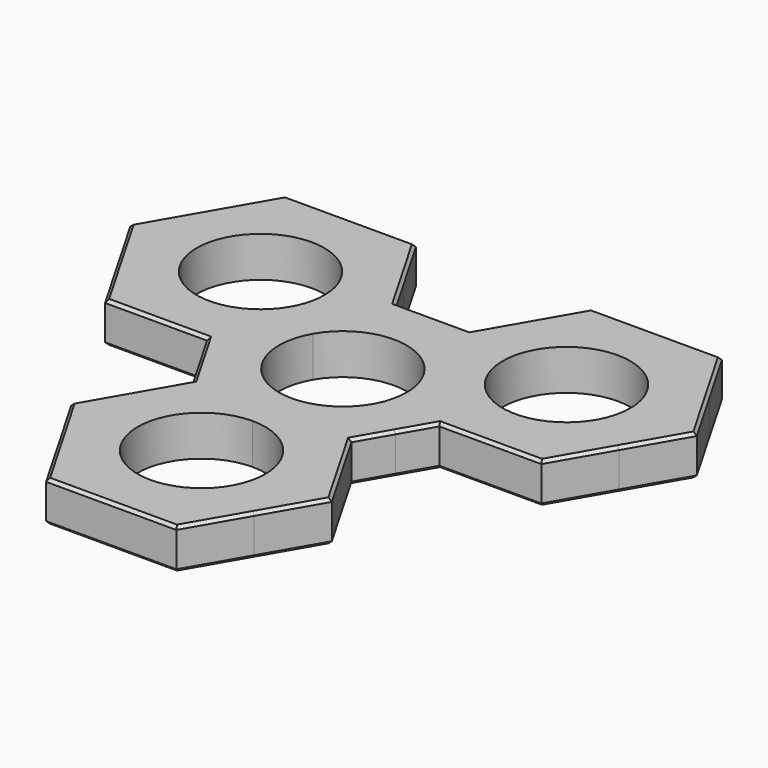
from build123d import *

# Parameters (mm, degrees)
F1_DEPTH = 6.985
F2_SIZE  = 0.508


with BuildPart() as f1:
    # F0 (on Top) → F1 (new body)
    with BuildSketch(Plane.XY):
        with BuildLine():
            ThreePointArc((9.5357190946, 5.5054500415), (10.6357126745, 2.8498306468), (11.0109, 0))
            ThreePointArc((11.0109, 0), (7.7858820574, -7.7858820566), (1.1e-09, -11.0109))
            Line((1.1e-09, -11.0109), (11.2404901259, -11.0109))
            Line((11.2404901259, -11.0109), (13.1646205371, -14.3435916326))
            ThreePointArc((13.1646205371, -14.3435916326), (15.1885256674, -12.180087966), (16.8607351436, -9.7345500784))
            ThreePointArc((16.8607351436, -9.7345500784), (18.1425283998, -7.0636051754), (19.0042250039, -4.2291))
            Line((19.0042250039, -4.2291), (15.1559641815, -4.2291))
            Line((15.1559641815, -4.2291), (9.5357190946, 5.5054500415))
        make_face()
        with BuildLine():
            ThreePointArc((-9.5357191578, 5.5054499319), (-6.32e-08, 11.0109), (9.5357190946, 5.5054500415))
            Line((9.5357190946, 5.5054500415), (3.9154740556, 15.24))
            Line((3.9154740556, 15.24), (5.8396044668, 18.5726916326))
            ThreePointArc((5.8396044668, 18.5726916326), (2.9540027205, 19.2436930639), (0, 19.4691))
            ThreePointArc((0, 19.4691), (-2.9540027205, 19.2436930639), (-5.8396044668, 18.5726916326))
            Line((-5.8396044668, 18.5726916326), (-3.9154740556, 15.24))
            Line((-3.9154740556, 15.24), (-9.5357191578, 5.5054499319))
        make_face()
        with BuildLine():
            Line((-11.2404901259, -11.0109), (1.1e-09, -11.0109))
            ThreePointArc((1.1e-09, -11.0109), (-9.5357190986, -5.5054500345), (-9.5357191578, 5.5054499319))
            Line((-9.5357191578, 5.5054499319), (-15.1559641815, -4.2291))
            Line((-15.1559641815, -4.2291), (-19.0042250039, -4.2291))
            ThreePointArc((-19.0042250039, -4.2291), (-18.1425283538, -7.0636052934), (-16.8607350169, -9.7345502977))
            ThreePointArc((-16.8607350169, -9.7345502977), (-15.1885255882, -12.1800880648), (-13.1646205371, -14.3435916326))
            Line((-13.1646205371, -14.3435916326), (-11.2404901259, -11.0109))
        make_face()
        with BuildLine():
            Line((11.2404901259, 19.4691), (16.8607351393, 9.7345500857))
            Line((16.8607351393, 9.7345500857), (22.4809802518, 0))
            Line((22.4809802518, 0), (20.5568498405, -3.3326916326))
            ThreePointArc((20.5568498405, -3.3326916326), (23.4424515869, -4.0036930639), (26.3964543074, -4.2291))
            ThreePointArc((26.3964543074, -4.2291), (36.1310042357, -1.6207352302), (43.2571894135, 5.5054498567))
            ThreePointArc((43.2571894135, 5.5054498567), (45.2021607905, 10.2010260491), (45.8655543073, 15.24))
            ThreePointArc((45.8655543073, 15.24), (45.2021608159, 20.2789738562), (43.2571895115, 24.9745499735))
            ThreePointArc((43.2571895115, 24.9745499735), (36.1310043206, 32.1007351812), (26.3964543074, 34.7091))
            ThreePointArc((26.3964543074, 34.7091), (16.6619043065, 32.1007351883), (9.5357191175, 24.9745499982))
            ThreePointArc((9.5357191175, 24.9745499982), (8.2539258908, 22.3036051322), (7.3922293034, 19.4691))
            Line((7.3922293034, 19.4691), (11.2404901259, 19.4691))
        make_face()
        with BuildLine():
            ThreePointArc((37.4073543073, 15.24), (29.2462848833, 4.6042873065), (16.8607351393, 9.7345500857))
            ThreePointArc((16.8607351393, 9.7345500857), (23.5466237314, 25.8757126935), (37.4073543073, 15.24))
        make_face(mode=Mode.SUBTRACT)
        with BuildLine():
            ThreePointArc((5.8396044668, 18.5726916326), (6.4940895018, 18.3540909977), (7.1404170128, 18.1124349465))
            ThreePointArc((7.1404170128, 18.1124349465), (7.2543004891, 18.7929990159), (7.3922293034, 19.4691))
            Line((7.3922293034, 19.4691), (6.357146079, 19.4691))
            Line((6.357146079, 19.4691), (5.8396044668, 18.5726916326))
        make_face()
        with BuildLine():
            ThreePointArc((20.5568498405, -3.3326916326), (19.9023648056, -3.1140909977), (19.2560372945, -2.8724349465))
            ThreePointArc((19.2560372945, -2.8724349465), (19.1421538183, -3.5529990159), (19.0042250039, -4.2291))
            Line((19.0042250039, -4.2291), (20.0393082283, -4.2291))
            Line((20.0393082283, -4.2291), (20.5568498405, -3.3326916326))
        make_face()
        with BuildLine():
            Line((11.2404901259, -19.4691), (8.1e-09, -19.4691))
            Line((8.1e-09, -19.4691), (-11.2404901259, -19.4691))
            Line((-11.2404901259, -19.4691), (-13.1646205371, -16.1364083674))
            ThreePointArc((-13.1646205371, -16.1364083674), (-15.1885255682, -18.2999119102), (-16.8607349849, -20.7454496469))
            ThreePointArc((-16.8607349849, -20.7454496469), (-19.4691, -30.4800000374), (-16.8607349475, -40.214550418))
            ThreePointArc((-16.8607349475, -40.214550418), (-9.734549801, -47.3407353037), (-2.3e-08, -49.9491))
            ThreePointArc((-2.3e-08, -49.9491), (9.7345501407, -47.3407351076), (16.8607353627, -40.2145496988))
            ThreePointArc((16.8607353627, -40.2145496988), (18.8057065496, -35.518973703), (19.4691, -30.48))
            ThreePointArc((19.4691, -30.48), (18.8057064421, -25.4410258959), (16.8607349475, -20.745449582))
            ThreePointArc((16.8607349475, -20.745449582), (15.1885255448, -18.299911881), (13.1646205371, -16.1364083674))
            Line((13.1646205371, -16.1364083674), (11.2404901259, -19.4691))
        make_face()
        with BuildLine():
            ThreePointArc((11.0109, -30.48), (-7.7858820598, -38.2658820541), (8.1e-09, -19.4691))
            ThreePointArc((8.1e-09, -19.4691), (7.7858820598, -22.6941179459), (11.0109, -30.48))
        make_face(mode=Mode.SUBTRACT)
        with BuildLine():
            ThreePointArc((13.1646205371, -14.3435916326), (12.6480643165, -14.8010919819), (12.1156202817, -15.24))
            ThreePointArc((12.1156202817, -15.24), (12.6480643165, -15.6789080181), (13.1646205371, -16.1364083674))
            Line((13.1646205371, -16.1364083674), (13.6821621493, -15.24))
            Line((13.6821621493, -15.24), (13.1646205371, -14.3435916326))
        make_face()
        with BuildLine():
            ThreePointArc((-13.1646205371, -16.1364083674), (-12.6480643165, -15.6789080181), (-12.1156202817, -15.24))
            ThreePointArc((-12.1156202817, -15.24), (-12.6480643165, -14.8010919819), (-13.1646205371, -14.3435916326))
            Line((-13.1646205371, -14.3435916326), (-13.6821621493, -15.24))
            Line((-13.6821621493, -15.24), (-13.1646205371, -16.1364083674))
        make_face()
        with BuildLine():
            Line((-22.4809802518, 0), (-16.8607351415, 9.7345500819))
            Line((-16.8607351415, 9.7345500819), (-11.2404901259, 19.4691))
            Line((-11.2404901259, 19.4691), (-7.3922293034, 19.4691))
            ThreePointArc((-7.3922293034, 19.4691), (-8.2539258856, 22.3036051189), (-9.5357191032, 24.9745499735))
            ThreePointArc((-9.5357191032, 24.9745499735), (-16.6619042941, 32.1007351812), (-26.3964543073, 34.7091))
            ThreePointArc((-26.3964543073, 34.7091), (-36.1310043206, 32.1007351812), (-43.2571895115, 24.9745499735))
            ThreePointArc((-43.2571895115, 24.9745499735), (-45.8655543073, 15.2399997434), (-43.2571892549, 5.505449582))
            ThreePointArc((-43.2571892549, 5.505449582), (-36.1310040984, -1.6207353095), (-26.3964543073, -4.2291))
            ThreePointArc((-26.3964543073, -4.2291), (-23.4424515869, -4.0036930639), (-20.5568498405, -3.3326916326))
            Line((-20.5568498405, -3.3326916326), (-22.4809802518, 0))
        make_face()
        with BuildLine():
            ThreePointArc((-15.3855543073, 15.24), (-15.7607416144, 12.390169422), (-16.8607351415, 9.7345500819))
            ThreePointArc((-16.8607351415, 9.7345500819), (-37.0321670003, 18.089830578), (-15.3855543073, 15.24))
        make_face(mode=Mode.SUBTRACT)
        with BuildLine():
            ThreePointArc((-19.0042250039, -4.2291), (-19.1421538183, -3.5529990159), (-19.2560372945, -2.8724349465))
            ThreePointArc((-19.2560372945, -2.8724349465), (-19.9023648056, -3.1140909977), (-20.5568498405, -3.3326916326))
            Line((-20.5568498405, -3.3326916326), (-20.0393082283, -4.2291))
            Line((-20.0393082283, -4.2291), (-19.0042250039, -4.2291))
        make_face()
        with BuildLine():
            ThreePointArc((0, 19.4691), (2.9540027205, 19.2436930639), (5.8396044668, 18.5726916326))
            Line((5.8396044668, 18.5726916326), (6.357146079, 19.4691))
            Line((6.357146079, 19.4691), (0, 19.4691))
        make_face()
        with BuildLine():
            Line((6.357146079, 19.4691), (7.3922293034, 19.4691))
            ThreePointArc((7.3922293034, 19.4691), (8.2539258908, 22.3036051322), (9.5357191175, 24.9745499982))
            Line((9.5357191175, 24.9745499982), (6.357146079, 19.4691))
        make_face()
        with BuildLine():
            Line((20.0393082283, -4.2291), (19.0042250039, -4.2291))
            ThreePointArc((19.0042250039, -4.2291), (18.1425283998, -7.0636051754), (16.8607351436, -9.7345500784))
            Line((16.8607351436, -9.7345500784), (20.0393082283, -4.2291))
        make_face()
        with BuildLine():
            ThreePointArc((26.3964543074, -4.2291), (23.4424515869, -4.0036930639), (20.5568498405, -3.3326916326))
            Line((20.5568498405, -3.3326916326), (20.0393082283, -4.2291))
            Line((20.0393082283, -4.2291), (26.3964543074, -4.2291))
        make_face()
        with BuildLine():
            ThreePointArc((16.8607351436, -9.7345500784), (15.1885256674, -12.180087966), (13.1646205371, -14.3435916326))
            Line((13.1646205371, -14.3435916326), (13.6821621493, -15.24))
            Line((13.6821621493, -15.24), (16.8607351436, -9.7345500784))
        make_face()
        with BuildLine():
            Line((13.6821621493, -15.24), (13.1646205371, -16.1364083674))
            ThreePointArc((13.1646205371, -16.1364083674), (15.1885255448, -18.299911881), (16.8607349475, -20.745449582))
            Line((16.8607349475, -20.745449582), (13.6821621493, -15.24))
        make_face()
        with BuildLine():
            Line((-13.6821621493, -15.24), (-13.1646205371, -14.3435916326))
            ThreePointArc((-13.1646205371, -14.3435916326), (-15.1885255882, -12.1800880648), (-16.8607350169, -9.7345502977))
            Line((-16.8607350169, -9.7345502977), (-13.6821621493, -15.24))
        make_face()
        with BuildLine():
            ThreePointArc((-16.8607349849, -20.7454496469), (-15.1885255682, -18.2999119102), (-13.1646205371, -16.1364083674))
            Line((-13.1646205371, -16.1364083674), (-13.6821621493, -15.24))
            Line((-13.6821621493, -15.24), (-16.8607349849, -20.7454496469))
        make_face()
        with BuildLine():
            ThreePointArc((-7.3922293034, 19.4691), (-7.2543004891, 18.7929990159), (-7.1404170128, 18.1124349465))
            ThreePointArc((-7.1404170128, 18.1124349465), (-6.4940895018, 18.3540909977), (-5.8396044668, 18.5726916326))
            Line((-5.8396044668, 18.5726916326), (-6.357146079, 19.4691))
            Line((-6.357146079, 19.4691), (-7.3922293034, 19.4691))
        make_face()
        with BuildLine():
            Line((-20.0393082283, -4.2291), (-20.5568498405, -3.3326916326))
            ThreePointArc((-20.5568498405, -3.3326916326), (-23.4424515869, -4.0036930639), (-26.3964543073, -4.2291))
            Line((-26.3964543073, -4.2291), (-20.0393082283, -4.2291))
        make_face()
        with BuildLine():
            ThreePointArc((-16.8607350169, -9.7345502977), (-18.1425283538, -7.0636052934), (-19.0042250039, -4.2291))
            Line((-19.0042250039, -4.2291), (-20.0393082283, -4.2291))
            Line((-20.0393082283, -4.2291), (-16.8607350169, -9.7345502977))
        make_face()
        with BuildLine():
            Line((-6.357146079, 19.4691), (-5.8396044668, 18.5726916326))
            ThreePointArc((-5.8396044668, 18.5726916326), (-2.9540027205, 19.2436930639), (0, 19.4691))
            Line((0, 19.4691), (-6.357146079, 19.4691))
        make_face()
        with BuildLine():
            Line((15.1559641815, 34.7091), (9.5357191175, 24.9745499982))
            ThreePointArc((9.5357191175, 24.9745499982), (16.6619043065, 32.1007351883), (26.3964543074, 34.7091))
            Line((26.3964543074, 34.7091), (15.1559641815, 34.7091))
        make_face()
        with BuildLine():
            ThreePointArc((43.2571894135, 5.5054498567), (36.1310042357, -1.6207352302), (26.3964543074, -4.2291))
            Line((26.3964543074, -4.2291), (37.6369444332, -4.2291))
            Line((37.6369444332, -4.2291), (43.2571894135, 5.5054498567))
        make_face()
        with BuildLine():
            Line((22.4809802518, -30.48), (16.8607349475, -20.745449582))
            ThreePointArc((16.8607349475, -20.745449582), (18.8057064421, -25.4410258959), (19.4691, -30.48))
            ThreePointArc((19.4691, -30.48), (18.8057065496, -35.518973703), (16.8607353627, -40.2145496988))
            Line((16.8607353627, -40.2145496988), (22.4809802518, -30.48))
        make_face()
        with BuildLine():
            ThreePointArc((-16.8607349475, -40.214550418), (-19.4691, -30.4800000374), (-16.8607349849, -20.7454496469))
            Line((-16.8607349849, -20.7454496469), (-22.4809802518, -30.48))
            Line((-22.4809802518, -30.48), (-16.8607349475, -40.214550418))
        make_face()
        with BuildLine():
            ThreePointArc((-9.5357191032, 24.9745499735), (-8.2539258856, 22.3036051189), (-7.3922293034, 19.4691))
            Line((-7.3922293034, 19.4691), (-6.357146079, 19.4691))
            Line((-6.357146079, 19.4691), (-9.5357191032, 24.9745499735))
        make_face()
        with BuildLine():
            Line((-37.6369444332, -4.2291), (-26.3964543073, -4.2291))
            ThreePointArc((-26.3964543073, -4.2291), (-36.1310040984, -1.6207353095), (-43.2571892549, 5.505449582))
            Line((-43.2571892549, 5.505449582), (-37.6369444332, -4.2291))
        make_face()
        with BuildLine():
            Line((37.6369444332, 34.7091), (26.3964543074, 34.7091))
            ThreePointArc((26.3964543074, 34.7091), (36.1310043206, 32.1007351812), (43.2571895115, 24.9745499735))
            Line((43.2571895115, 24.9745499735), (37.6369444332, 34.7091))
        make_face()
        with BuildLine():
            ThreePointArc((45.8655543073, 15.24), (45.2021607905, 10.2010260491), (43.2571894135, 5.5054498567))
            Line((43.2571894135, 5.5054498567), (48.8774345591, 15.24))
            Line((48.8774345591, 15.24), (43.2571895115, 24.9745499735))
            ThreePointArc((43.2571895115, 24.9745499735), (45.2021608159, 20.2789738562), (45.8655543073, 15.24))
        make_face()
        with BuildLine():
            ThreePointArc((-2.3e-08, -49.9491), (-9.734549801, -47.3407353037), (-16.8607349475, -40.214550418))
            Line((-16.8607349475, -40.214550418), (-11.2404901259, -49.9491))
            Line((-11.2404901259, -49.9491), (-2.3e-08, -49.9491))
        make_face()
        with BuildLine():
            ThreePointArc((-26.3964543073, 34.7091), (-16.6619042941, 32.1007351812), (-9.5357191032, 24.9745499735))
            Line((-9.5357191032, 24.9745499735), (-15.1559641815, 34.7091))
            Line((-15.1559641815, 34.7091), (-26.3964543073, 34.7091))
        make_face()
        with BuildLine():
            Line((-48.8774345591, 15.24), (-43.2571892549, 5.505449582))
            ThreePointArc((-43.2571892549, 5.505449582), (-45.8655543073, 15.2399997434), (-43.2571895115, 24.9745499735))
            Line((-43.2571895115, 24.9745499735), (-48.8774345591, 15.24))
        make_face()
        with BuildLine():
            Line((11.2404901259, -49.9491), (16.8607353627, -40.2145496988))
            ThreePointArc((16.8607353627, -40.2145496988), (9.7345501407, -47.3407351076), (-2.3e-08, -49.9491))
            Line((-2.3e-08, -49.9491), (11.2404901259, -49.9491))
        make_face()
        with BuildLine():
            ThreePointArc((-43.2571895115, 24.9745499735), (-36.1310043206, 32.1007351812), (-26.3964543073, 34.7091))
            Line((-26.3964543073, 34.7091), (-37.6369444332, 34.7091))
            Line((-37.6369444332, 34.7091), (-43.2571895115, 24.9745499735))
        make_face()
        with BuildLine():
            ThreePointArc((12.1156202817, -15.24), (6.4162594564, -12.0985563843), (1.1e-09, -11.0109))
            Line((0, -11.0109), (0, -19.4691))
            ThreePointArc((8.1e-09, -19.4691), (6.4162594597, -18.3814436146), (12.1156202817, -15.24))
        make_face()
        with BuildLine():
            Line((11.2404901259, -11.0109), (1.1e-09, -11.0109))
            ThreePointArc((1.1e-09, -11.0109), (6.4162594564, -12.0985563843), (12.1156202817, -15.24))
            ThreePointArc((12.1156202817, -15.24), (12.6480643165, -14.8010919819), (13.1646205371, -14.3435916326))
            Line((13.1646205371, -14.3435916326), (11.2404901259, -11.0109))
        make_face()
        with BuildLine():
            ThreePointArc((12.1156202817, -15.24), (6.4162594597, -18.3814436146), (8.1e-09, -19.4691))
            Line((8.1e-09, -19.4691), (11.2404901259, -19.4691))
            Line((11.2404901259, -19.4691), (13.1646205371, -16.1364083674))
            ThreePointArc((13.1646205371, -16.1364083674), (12.6480643165, -15.6789080181), (12.1156202817, -15.24))
        make_face()
        with BuildLine():
            Line((0, -19.4691), (0, -11.0109))
            ThreePointArc((1.1e-09, -11.0109), (-6.4162594553, -12.0985563839), (-12.1156202817, -15.24))
            ThreePointArc((-12.1156202817, -15.24), (-6.416259452, -18.3814436173), (8.1e-09, -19.4691))
        make_face()
        with BuildLine():
            Line((-11.2404901259, -19.4691), (8.1e-09, -19.4691))
            ThreePointArc((8.1e-09, -19.4691), (-6.416259452, -18.3814436173), (-12.1156202817, -15.24))
            ThreePointArc((-12.1156202817, -15.24), (-12.6480643165, -15.6789080181), (-13.1646205371, -16.1364083674))
            Line((-13.1646205371, -16.1364083674), (-11.2404901259, -19.4691))
        make_face()
        with BuildLine():
            ThreePointArc((-12.1156202817, -15.24), (-6.4162594553, -12.0985563839), (1.1e-09, -11.0109))
            Line((1.1e-09, -11.0109), (-11.2404901259, -11.0109))
            Line((-11.2404901259, -11.0109), (-13.1646205371, -14.3435916326))
            ThreePointArc((-13.1646205371, -14.3435916326), (-12.6480643165, -14.8010919819), (-12.1156202817, -15.24))
        make_face()
        with BuildLine():
            Line((16.8607351888, 9.73455), (9.5357191185, 5.50545))
            ThreePointArc((9.5357190946, 5.5054500415), (13.6857868875, 0.4926345216), (19.2560372945, -2.8724349465))
            ThreePointArc((19.2560372945, -2.8724349465), (19.4157612586, -1.4401630323), (19.4691, 0))
            ThreePointArc((19.4691, 0), (18.8057064918, 5.0389739188), (16.8607351393, 9.7345500857))
        make_face()
        with BuildLine():
            ThreePointArc((7.1404170128, 18.1124349465), (7.2695274453, 11.6059219016), (9.5357190946, 5.5054500415))
            Line((9.5357191185, 5.50545), (16.8607351888, 9.73455))
            ThreePointArc((16.8607351393, 9.7345500857), (12.7106673642, 14.7473655263), (7.1404170128, 18.1124349465))
        make_face()
        with BuildLine():
            ThreePointArc((7.1404170128, 18.1124349465), (12.7106673642, 14.7473655263), (16.8607351393, 9.7345500857))
            Line((16.8607351393, 9.7345500857), (11.2404901259, 19.4691))
            Line((11.2404901259, 19.4691), (7.3922293034, 19.4691))
            ThreePointArc((7.3922293034, 19.4691), (7.2543004891, 18.7929990159), (7.1404170128, 18.1124349465))
        make_face()
        with BuildLine():
            Line((-16.8607351888, 9.73455), (-9.5357191185, 5.50545))
            ThreePointArc((-9.5357191578, 5.5054499319), (-7.5907478129, 10.201026091), (-6.9273543073, 15.24))
            ThreePointArc((-6.9273543073, 15.24), (-6.9806930488, 16.6801630323), (-7.1404170128, 18.1124349465))
            ThreePointArc((-7.1404170128, 18.1124349465), (-12.7106673658, 14.7473655249), (-16.8607351415, 9.7345500819))
        make_face()
        with BuildLine():
            Line((-11.2404901259, 19.4691), (-16.8607351415, 9.7345500819))
            ThreePointArc((-16.8607351415, 9.7345500819), (-12.7106673658, 14.7473655249), (-7.1404170128, 18.1124349465))
            ThreePointArc((-7.1404170128, 18.1124349465), (-7.2543004891, 18.7929990159), (-7.3922293034, 19.4691))
            Line((-7.3922293034, 19.4691), (-11.2404901259, 19.4691))
        make_face()
        with BuildLine():
            ThreePointArc((-6.9273543073, 15.24), (-7.5907478129, 10.201026091), (-9.5357191578, 5.5054499319))
            Line((-9.5357191578, 5.5054499319), (-3.9154740556, 15.24))
            Line((-3.9154740556, 15.24), (-5.8396044668, 18.5726916326))
            ThreePointArc((-5.8396044668, 18.5726916326), (-6.4940895018, 18.3540909977), (-7.1404170128, 18.1124349465))
            ThreePointArc((-7.1404170128, 18.1124349465), (-6.9806930488, 16.6801630323), (-6.9273543073, 15.24))
        make_face()
        with BuildLine():
            ThreePointArc((-19.2560372945, -2.8724349465), (-19.1269268487, 3.6340781684), (-16.8607351415, 9.7345500819))
            Line((-16.8607351415, 9.7345500819), (-22.4809802518, 0))
            Line((-22.4809802518, 0), (-20.5568498405, -3.3326916326))
            ThreePointArc((-20.5568498405, -3.3326916326), (-19.9023648056, -3.1140909977), (-19.2560372945, -2.8724349465))
        make_face()
        with BuildLine():
            Line((-15.1559641815, -4.2291), (-9.5357191578, 5.5054499319))
            ThreePointArc((-9.5357191578, 5.5054499319), (-13.6857869354, 0.4926344803), (-19.2560372945, -2.8724349465))
            ThreePointArc((-19.2560372945, -2.8724349465), (-19.1421538183, -3.5529990159), (-19.0042250039, -4.2291))
            Line((-19.0042250039, -4.2291), (-15.1559641815, -4.2291))
        make_face()
        with BuildLine():
            Line((3.9154740556, 15.24), (9.5357190946, 5.5054500415))
            ThreePointArc((9.5357190946, 5.5054500415), (7.2695274453, 11.6059219016), (7.1404170128, 18.1124349465))
            ThreePointArc((7.1404170128, 18.1124349465), (6.4940895018, 18.3540909977), (5.8396044668, 18.5726916326))
            Line((5.8396044668, 18.5726916326), (3.9154740556, 15.24))
        make_face()
        with BuildLine():
            ThreePointArc((-19.2560372945, -2.8724349465), (-13.6857869354, 0.4926344803), (-9.5357191578, 5.5054499319))
            Line((-9.5357191185, 5.50545), (-16.8607351888, 9.73455))
            ThreePointArc((-16.8607351415, 9.7345500819), (-19.1269268487, 3.6340781684), (-19.2560372945, -2.8724349465))
        make_face()
        with BuildLine():
            ThreePointArc((19.2560372945, -2.8724349465), (13.6857868875, 0.4926345216), (9.5357190946, 5.5054500415))
            Line((9.5357190946, 5.5054500415), (15.1559641815, -4.2291))
            Line((15.1559641815, -4.2291), (19.0042250039, -4.2291))
            ThreePointArc((19.0042250039, -4.2291), (19.1421538183, -3.5529990159), (19.2560372945, -2.8724349465))
        make_face()
        with BuildLine():
            Line((22.4809802518, 0), (16.8607351393, 9.7345500857))
            ThreePointArc((16.8607351393, 9.7345500857), (18.8057064918, 5.0389739188), (19.4691, 0))
            ThreePointArc((19.4691, 0), (19.4157612586, -1.4401630323), (19.2560372945, -2.8724349465))
            ThreePointArc((19.2560372945, -2.8724349465), (19.9023648056, -3.1140909977), (20.5568498405, -3.3326916326))
            Line((20.5568498405, -3.3326916326), (22.4809802518, 0))
        make_face()
    extrude(amount=F1_DEPTH)

    # F2
    f2_edges = [f1.edges().sort_by_distance(p)[0] for p in [
        (-43.257189, 24.97455, 6.985),
        (-26.396454, 34.7091, 6.985),
        (-10.756555, 27.0891, 6.985),
        (0, 19.4691, 6.985),
        (10.756555, 27.0891, 6.985),
        (26.396454, 34.7091, 6.985),
        (43.257189, 24.97455, 6.985),
        (43.257189, 5.50545, 6.985),
        (28.838126, -4.2291, 6.985),
        (16.860735, -9.73455, 6.985),
        (18.081571, -22.86, 6.985),
        (16.860735, -40.21455, 6.985),
        (0, -49.9491, 6.985),
        (-16.860735, -40.21455, 6.985),
        (-18.081571, -22.86, 6.985),
        (-16.860735, -9.73455, 6.985),
        (-28.838126, -4.2291, 6.985),
        (-43.257189, 5.50545, 6.985),
        (43.257189, 24.97455, 0),
        (26.396454, 34.7091, 0),
        (10.756555, 27.0891, 0),
        (0, 19.4691, 0),
        (43.257189, 5.50545, 0),
        (28.838126, -4.2291, 0),
        (16.860735, -9.73455, 0),
        (18.081571, -22.86, 0),
        (16.860735, -40.21455, 0),
        (0, -49.9491, 0),
        (-16.860735, -40.21455, 0),
        (-18.081571, -22.86, 0),
        (-16.860735, -9.73455, 0),
        (-28.838126, -4.2291, 0),
        (-43.257189, 5.50545, 0),
        (-43.257189, 24.97455, 0),
        (-26.396454, 34.7091, 0),
        (-10.756555, 27.0891, 0),
    ]]
    chamfer(f2_edges, length=F2_SIZE)


solid = f1.part
